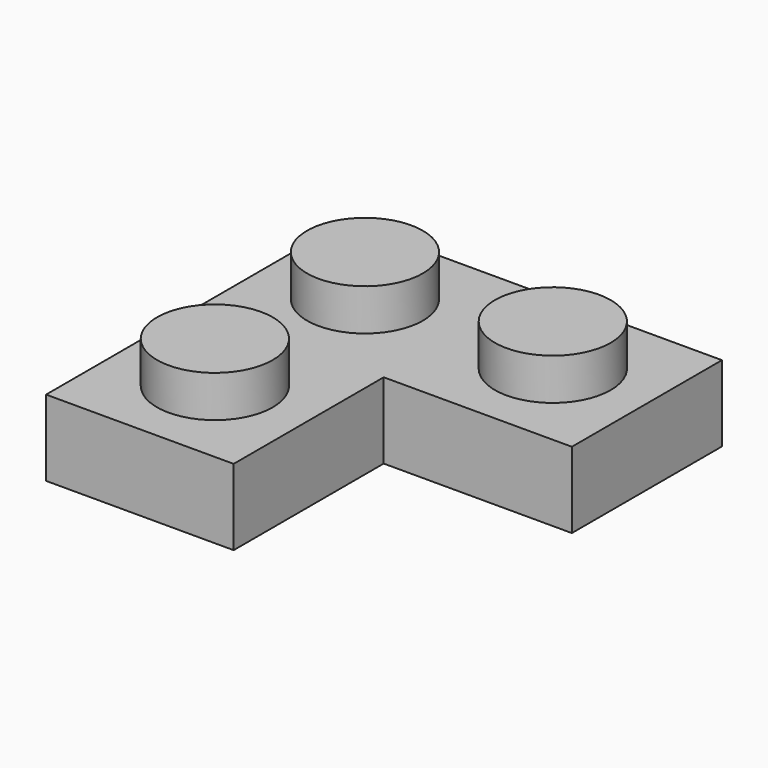
from build123d import *

# Parameters (mm, degrees)
F1_DEPTH  = 3.2004
F2_T      = -1.524
F3_R      = 2.4384
F4_DEPTH  = 1.7526
F5_R      = 1.3
F6_DEPTH  = 1.7
F8_DEPTH  = 1.524
F9_R      = 1.5367
F10_DEPTH = 1.524
F11_R     = 0.762
F12_DEPTH = 1.524
F13_R     = 0.762
F14_DEPTH = 1.524


with BuildPart() as f1:
    # F0 (on Top) → F1 (new body)
    with BuildSketch(Plane.XY):
        Polygon((-7.8994, -7.8994), (0, -7.8994), (0, 0), (7.9248, 0), (7.9248, 7.8994), (-7.8994, 7.8994), (-7.8994, 0), align=None)
    extrude(amount=F1_DEPTH)

    # F2
    f2_openings = [f1.faces().sort_by_distance(p)[0] for p in [
        (-1.306686, 1.319386, 0),
    ]]
    offset(amount=F2_T, openings=f2_openings, kind=Kind.INTERSECTION)

    # F3 (on face) → F4 (join)
    with BuildSketch(Plane.XY.offset(3.2004)):
        with Locations((3.9624, 3.9497)):
            Circle(F3_R)
        with Locations((-3.9497, 3.9497)):
            Circle(F3_R)
        with Locations((-3.9497, -3.9497)):
            Circle(F3_R)
    extrude(amount=F4_DEPTH)

    # F5 (on face) → F6 (cut)
    with BuildSketch(Plane(origin=(0, 0, 0), x_dir=(1, 0, 0), z_dir=(0, 0, -1))):
        with Locations((-3.9497, 3.9497)):
            Circle(F5_R)
        with Locations((-3.9497, -3.9497)):
            Circle(F5_R)
        with Locations((3.9624, -3.9497)):
            Circle(F5_R)
    extrude(amount=-F6_DEPTH, mode=Mode.SUBTRACT)

    # F7 (on face) → F8 (join)
    with BuildSketch(Plane(origin=(0, 0, 1.6764), x_dir=(1, 0, 0), z_dir=(0, 0, -1))):
        Polygon((-0.7157769491, -1.524), (-1.524, -0.7157769491), (-2.5297886856, -1.7215656347), (-1.7215656347, -2.5297886856), align=None)
    extrude(amount=F8_DEPTH)

    # F9 (on face) → F10 (join)
    with BuildSketch(Plane(origin=(0, 0, 1.6764), x_dir=(1, 0, 0), z_dir=(0, 0, -1))):
        with Locations((-3.9497, 0)):
            Circle(F9_R)
        with Locations((0, -3.9497)):
            Circle(F9_R)
    extrude(amount=F10_DEPTH)

    # F11 (on face) → F12 (cut)
    with BuildSketch(Plane(origin=(0, 0, 0.1524), x_dir=(1, 0, 0), z_dir=(0, 0, -1))):
        with Locations((-3.9497, 0)):
            Circle(F11_R)
    extrude(amount=-F12_DEPTH, mode=Mode.SUBTRACT)

    # F13 (on face) → F14 (cut)
    with BuildSketch(Plane(origin=(0, 0, 0.1524), x_dir=(1, 0, 0), z_dir=(0, 0, -1))):
        with Locations((0, -3.9497)):
            Circle(F13_R)
    extrude(amount=-F14_DEPTH, mode=Mode.SUBTRACT)


solid = f1.part
